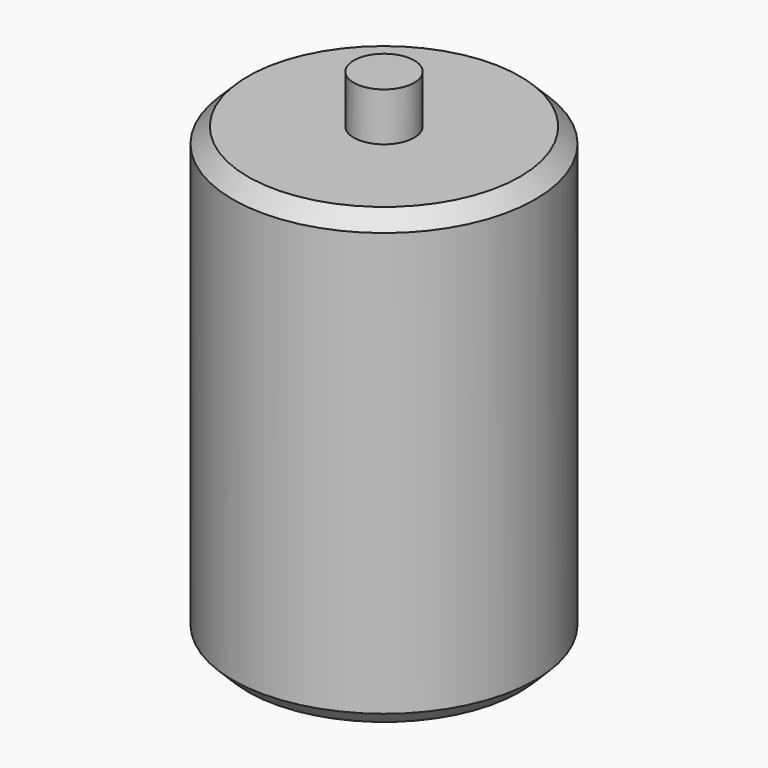
from build123d import *

# Parameters (mm, degrees)
F0_R     = 10
F1_DEPTH = 91
F2_R     = 50
F3_DEPTH = 75
F4_SIZE  = 5
F5_SIZE  = 5


with BuildPart() as f1:
    # F0 (on Top) → F1 (new body, symmetric)
    with BuildSketch(Plane.XY):
        Circle(F0_R)
    extrude(amount=F1_DEPTH, both=True)

    # F2 (on Top) → F3 (join, symmetric)
    with BuildSketch(Plane.XY):
        Circle(F2_R)
    extrude(amount=F3_DEPTH, both=True)

    # F4
    f4_edges = [f1.edges().sort_by_distance(p)[0] for p in [
        (-50, 0, -75),
    ]]
    chamfer(f4_edges, length=F4_SIZE)

    # F5
    f5_edges = [f1.edges().sort_by_distance(p)[0] for p in [
        (-50, 0, 75),
    ]]
    chamfer(f5_edges, length=F5_SIZE)


solid = f1.part
